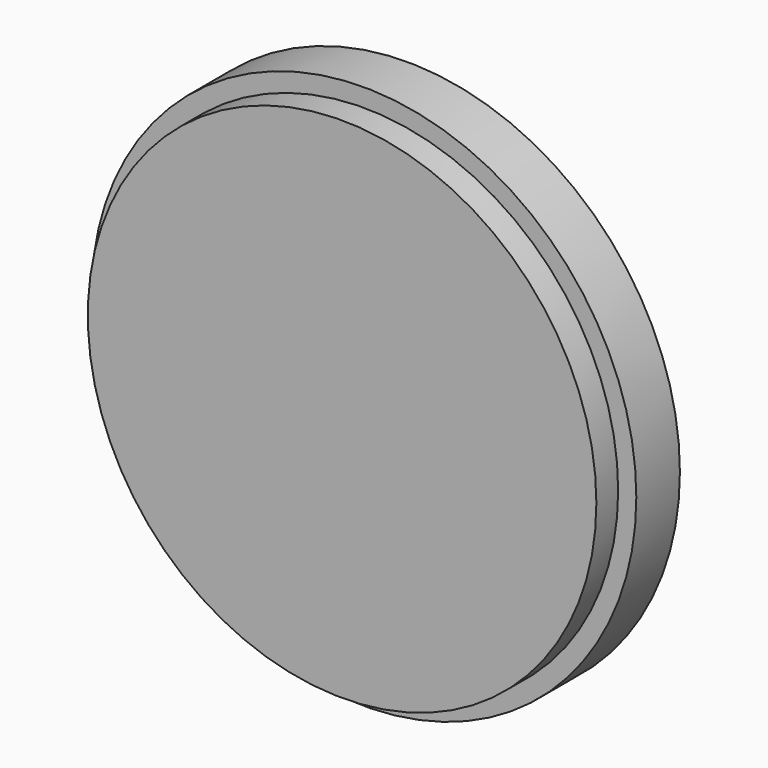
from build123d import *

# Parameters (mm, degrees)
SKETCH_R     = 30
PAD_DEPTH    = 6
SKETCH001_R  = 28
PAD001_DEPTH = 3
SKETCH002_R  = 2.3
PAD002_DEPTH = 18


with BuildPart() as part:
    # Sketch → Pad (new body)
    with BuildSketch(Plane.XZ):
        Circle(SKETCH_R)
    extrude(amount=PAD_DEPTH)

    # Sketch001 (on Face3 of Pad) → Pad001 (join)
    with BuildSketch(Plane.XZ.offset(6)):
        Circle(SKETCH001_R)
    extrude(amount=PAD001_DEPTH)

    # Sketch002 (on Face2 of Pad001) → Pad002 (join)
    with BuildSketch(Plane(origin=(0, 0, 0), x_dir=(1, 0, 0), z_dir=(0, 1, 0))):
        Circle(SKETCH002_R)
    extrude(amount=PAD002_DEPTH)


solid = part.part
